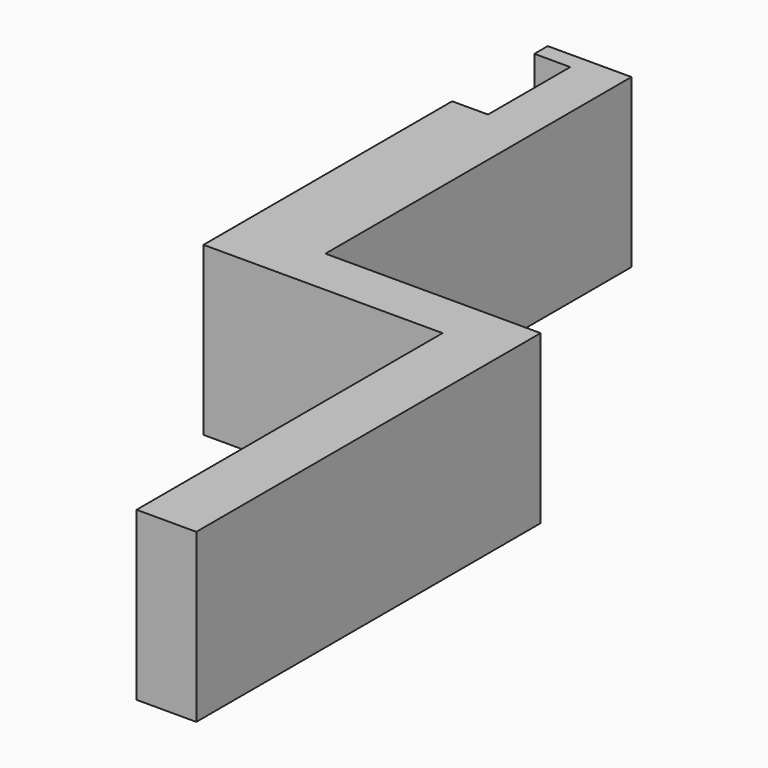
from build123d import *

# Parameters (mm, degrees)
BOX016_W     = 12
BOX016_H     = 2
BOX016_DEPTH = 7
BOX018_W     = 3.5
BOX018_H     = 4.3
BOX018_DEPTH = 7
BOX017_W     = 3.5
BOX017_H     = 18
BOX017_DEPTH = 7
BOX015_W     = 2.5
BOX015_H     = 18
BOX015_DEPTH = 7


with BuildPart() as box016:
    # Box016 → Box016 (new body)
    with BuildSketch(Plane(origin=(-9, 17, 0), x_dir=(1, 0, 0), z_dir=(0, 0, 1))):
        with Locations((6, 1)):
            Rectangle(BOX016_W, BOX016_H)
    extrude(amount=BOX016_DEPTH)


with BuildPart() as box018:
    # Box018 → Box018 (new body)
    with BuildSketch(Plane(origin=(-11, 30, 0), x_dir=(1, 0, 0), z_dir=(0, 0, 1))):
        with Locations((1.75, 2.15)):
            Rectangle(BOX018_W, BOX018_H)
    extrude(amount=BOX018_DEPTH)


with BuildPart() as cut043:
    # Box017 → Box017 (new body)
    with BuildSketch(Plane(origin=(-9, 17, 0), x_dir=(1, 0, 0), z_dir=(0, 0, 1))):
        with Locations((1.75, 9)):
            Rectangle(BOX017_W, BOX017_H)
    extrude(amount=BOX017_DEPTH)

    # Cut043: cut Box018
    add(box018.part, mode=Mode.SUBTRACT)


with BuildPart() as fusion020:
    # Box015 → Box015 (new body)
    with BuildSketch(Plane(origin=(1, 1, 0), x_dir=(1, 0, 0), z_dir=(0, 0, 1))):
        with Locations((1.25, 9)):
            Rectangle(BOX015_W, BOX015_H)
    extrude(amount=BOX015_DEPTH)

    # Fusion020: union Box016, Cut043
    add(box016.part)
    add(cut043.part)


solid = fusion020.part
